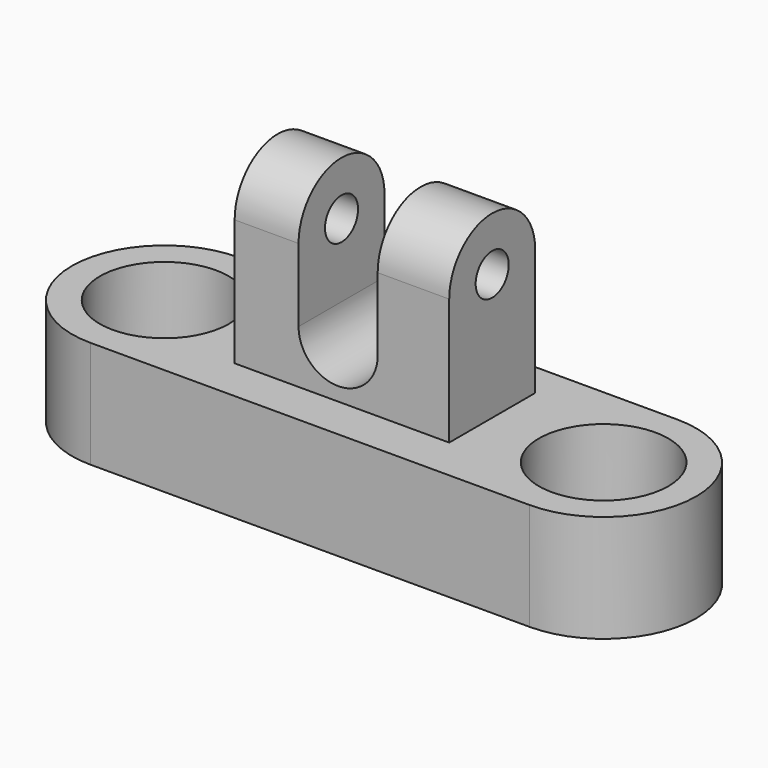
from build123d import *

# Parameters (mm, degrees)
F0_R     = 15.282642
F0_R_2   = 15.323719
F1_DEPTH = 25.4
F3_DEPTH = 25.4
F4_R     = 4.893214
F5_DEPTH = 50.8
F7_DEPTH = 50.8


with BuildPart() as f1:
    # F0 (on Top) → F1 (new body)
    with BuildSketch(Plane.XY):
        with BuildLine():
            ThreePointArc((51.994264, -21.898761), (73.893026, 0), (51.994264, 21.898761))
            Line((51.994264, 21.898761), (-51.994264, 21.898761))
            ThreePointArc((-51.994264, 21.898761), (-73.893026, 0), (-51.994264, -21.898761))
            Line((-51.994264, -21.898761), (51.994264, -21.898761))
        make_face()
        with Locations((-51.994264, 0)):
            Circle(F0_R, mode=Mode.SUBTRACT)
        with Locations((51.994264, 0)):
            Circle(F0_R_2, mode=Mode.SUBTRACT)
    extrude(amount=F1_DEPTH)


with BuildPart() as f3:
    # F2 (on Right) → F3 (new body, symmetric)
    with BuildSketch(Plane.YZ):
        with BuildLine():
            Line((-12.449689, 55.832159), (-12.449689, 25.924856))
            Line((-12.449689, 25.924856), (12.987981, 25.924856))
            Line((12.987981, 25.924856), (12.987981, 55.832159))
            ThreePointArc((12.987981, 55.832159), (0.269146, 68.550994), (-12.449689, 55.832159))
        make_face()
    extrude(amount=F3_DEPTH, both=True)

    # F4 (on face) → F5 (cut)
    with BuildSketch(Plane.YZ.offset(25.4)):
        with Locations((0.269146, 55.832159)):
            Circle(F4_R)
    extrude(amount=-F5_DEPTH, mode=Mode.SUBTRACT)

    # F6 (on face) → F7 (cut)
    with BuildSketch(Plane(origin=(0, 12.987981, 0), x_dir=(-1, 0, 0), z_dir=(0, 1, 0))):
        with BuildLine():
            Line((10.269875, 72.258279), (-8.461736, 72.258279))
            Line((-8.461736, 72.258279), (-8.461736, 38.505711))
            ThreePointArc((-8.461736, 38.505711), (0.904069, 29.139905), (10.269875, 38.505711))
            Line((10.269875, 38.505711), (10.269875, 72.258279))
        make_face()
    extrude(amount=-F7_DEPTH, mode=Mode.SUBTRACT)


solid = Compound([f1.part, f3.part])
